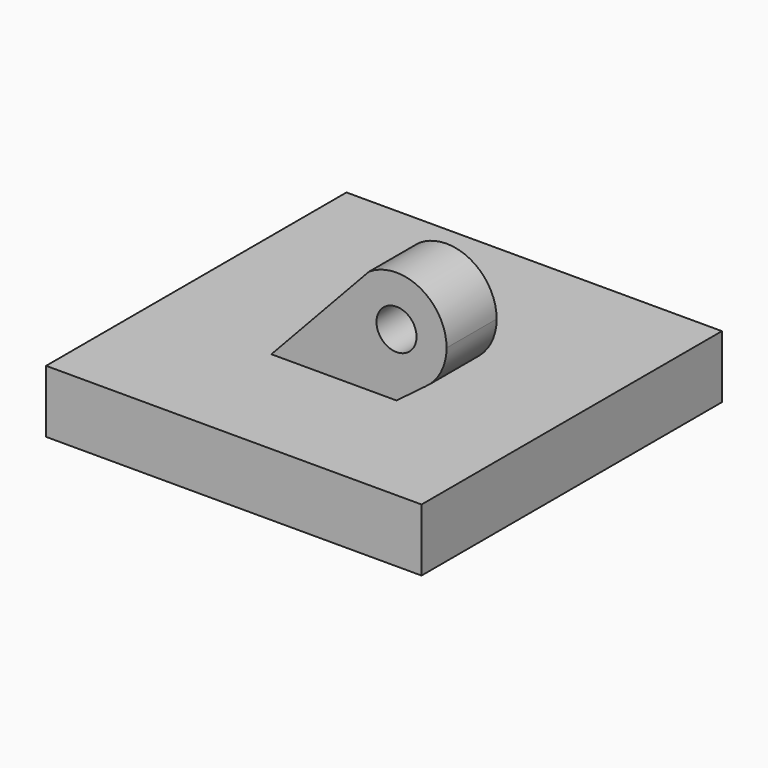
from build123d import *

# Parameters (mm, degrees)
F0_W     = 30
F0_H     = 30
F1_DEPTH = 5
F3_DEPTH = 5
F4_R     = 1.6
F5_DEPTH = 20.001


with BuildPart() as f1:
    # F0 (on Top) → F1 (new body)
    with BuildSketch(Plane.XY):
        Rectangle(F0_W, F0_H)
    extrude(amount=F1_DEPTH)

    # F2 (on Front) → F3 (join)
    with BuildSketch(Plane.XZ):
        with BuildLine():
            Line((2.788165, 13.332835), (7.243725, 6.68855))
            ThreePointArc((7.243725, 6.68855), (8.533759, 8.12582), (9, 10))
            ThreePointArc((9, 10), (6.891119, 13.524723), (2.788165, 13.332835))
        make_face()
        with BuildLine():
            Line((5, 10), (5, 6))
            ThreePointArc((5, 6), (6.173499, 6.17601), (7.243725, 6.68855))
            Line((7.243725, 6.68855), (2.788165, 13.332835))
            Line((2.788165, 13.332835), (1.525476, 11.981839))
            ThreePointArc((1.525476, 11.981839), (1.1336, 11.02516), (1, 10))
            Line((1, 10), (5, 10))
        make_face()
        with BuildLine():
            ThreePointArc((1, 10), (2.171573, 7.171573), (5, 6))
            Line((5, 6), (5, 10))
            Line((5, 10), (1, 10))
        make_face()
        with BuildLine():
            Line((-3.147079, 5), (0, 5))
            Line((0, 5), (0, 10))
            Line((0, 10), (1, 10))
            ThreePointArc((1, 10), (1.1336, 11.02516), (1.525476, 11.981839))
            Line((1.525476, 11.981839), (-5, 5))
            Line((-5, 5), (-3.147079, 5))
        make_face()
        with BuildLine():
            Line((0, 10), (0, 5))
            Line((0, 5), (5, 5))
            Line((5, 5), (5, 6))
            ThreePointArc((5, 6), (2.171573, 7.171573), (1, 10))
            Line((1, 10), (0, 10))
        make_face()
        with BuildLine():
            Line((5, 6), (5, 5))
            Line((5, 5), (7.243725, 6.68855))
            ThreePointArc((7.243725, 6.68855), (6.173499, 6.17601), (5, 6))
        make_face()
    extrude(amount=F3_DEPTH)

    # F4 (on face) → F5 (cut, through all)
    with BuildSketch(Plane.XZ.offset(5)):
        with Locations((5, 10)):
            Circle(F4_R)
    extrude(amount=-F5_DEPTH, mode=Mode.SUBTRACT)


solid = f1.part
